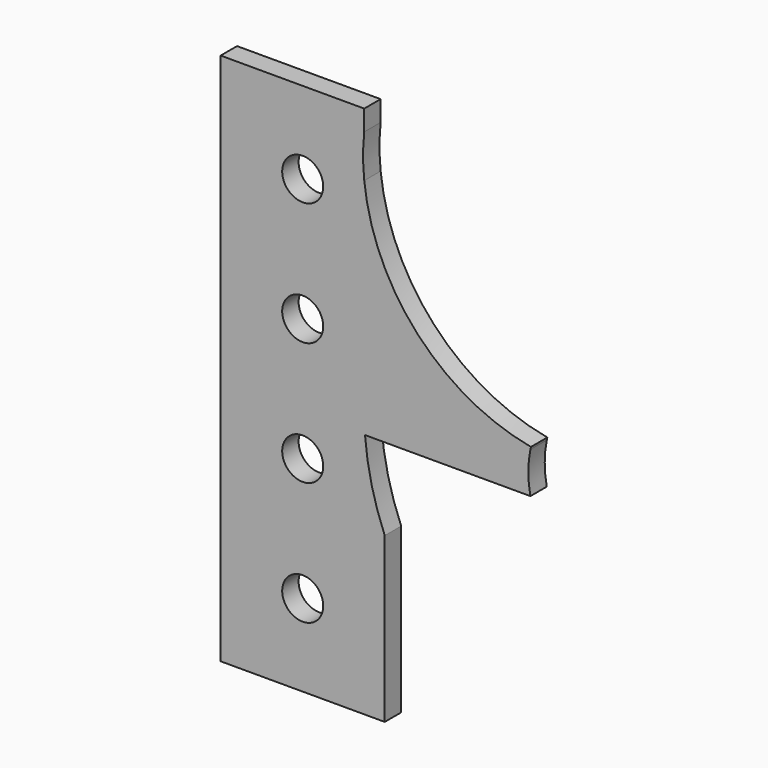
from build123d import *

# Parameters (mm, degrees)
F0_R     = 5
F1_DEPTH = 5


with BuildPart() as f1:
    # F0 (on Front) → F1 (new body)
    with BuildSketch(Plane.XZ):
        with BuildLine():
            Line((0, 130), (0, 0))
            Line((0, 0), (35, 0))
            Line((35, 0), (35, 60))
            Line((35, 60), (35, 70))
            Line((35, 70), (35, 114.5522276671))
            ThreePointArc((35, 114.5522276671), (34.7263613521, 119.7761138335), (35, 125))
            Line((35, 125), (35, 130))
            Line((35, 130), (0, 130))
        make_face()
        with Locations((20, 20)):
            Circle(F0_R, mode=Mode.SUBTRACT)
        with Locations((20, 50)):
            Circle(F0_R, mode=Mode.SUBTRACT)
        with Locations((20, 80)):
            Circle(F0_R, mode=Mode.SUBTRACT)
        with Locations((20, 110)):
            Circle(F0_R, mode=Mode.SUBTRACT)
        with BuildLine():
            Line((35, 114.5522276671), (35, 70))
            Line((35, 70), (75.5051025722, 70))
            ThreePointArc((75.5051025722, 70), (75.5693407605, 70.3049871936), (75.6373762056, 70.6091498332))
            ThreePointArc((75.6373762056, 70.6091498332), (48.0172375773, 85.8285037308), (35, 114.5522276671))
        make_face()
        with BuildLine():
            Line((35, 70), (35, 60))
            Line((35, 60), (35.1925930159, 60))
            Line((35.1925930159, 60), (40, 60))
            Line((40, 60), (75.5051025722, 60))
            ThreePointArc((75.5051025722, 60), (75, 65), (75.5051025722, 70))
            Line((75.5051025722, 70), (35, 70))
        make_face()
        with BuildLine():
            Line((35, 60), (35, 0))
            Line((35, 0), (40, 0))
            Line((40, 0), (40, 40))
            ThreePointArc((40, 40), (36.8001407476, 49.8086277619), (35.1925930159, 60))
            Line((35.1925930159, 60), (35, 60))
        make_face()
    extrude(amount=F1_DEPTH)


solid = f1.part
